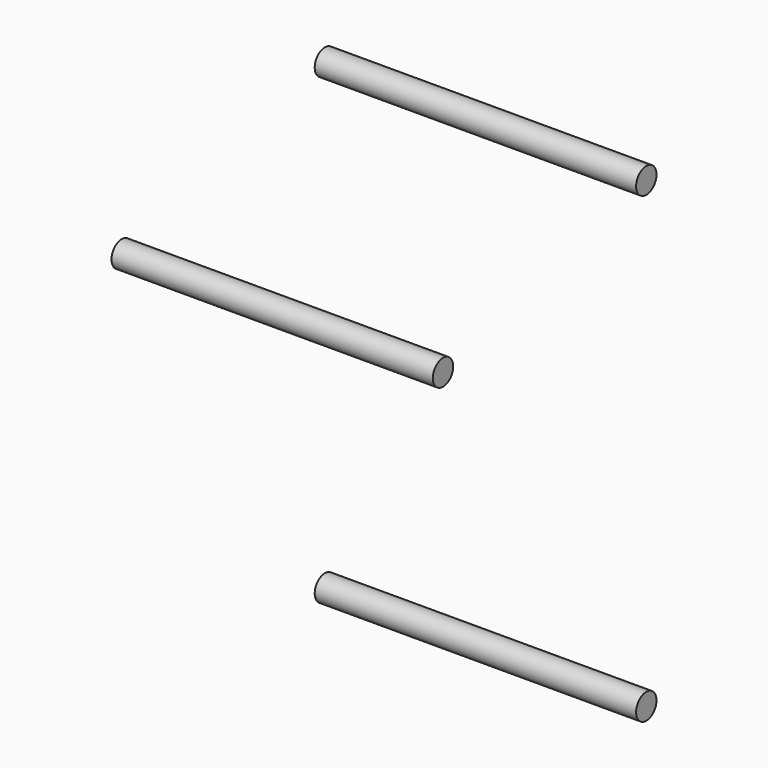
from build123d import *

# Parameters (mm, degrees)
F0_R     = 1.5875
F1_DEPTH = 40
F2_DEPTH = 40


with BuildPart() as f1:
    # F0 (on Right) → F1 (new body)
    with BuildSketch(Plane.YZ):
        Circle(F0_R)
    extrude(amount=F1_DEPTH)


with BuildPart() as f2:
    # F0 (on Right) → F2 (new body)
    with BuildSketch(Plane.YZ):
        with Locations((-31.621896, 49.44909)):
            Circle(F0_R)
        with Locations((0, 57.6199)):
            Circle(F0_R)
    extrude(amount=F2_DEPTH)


solid = Compound([f1.part, f2.part])
